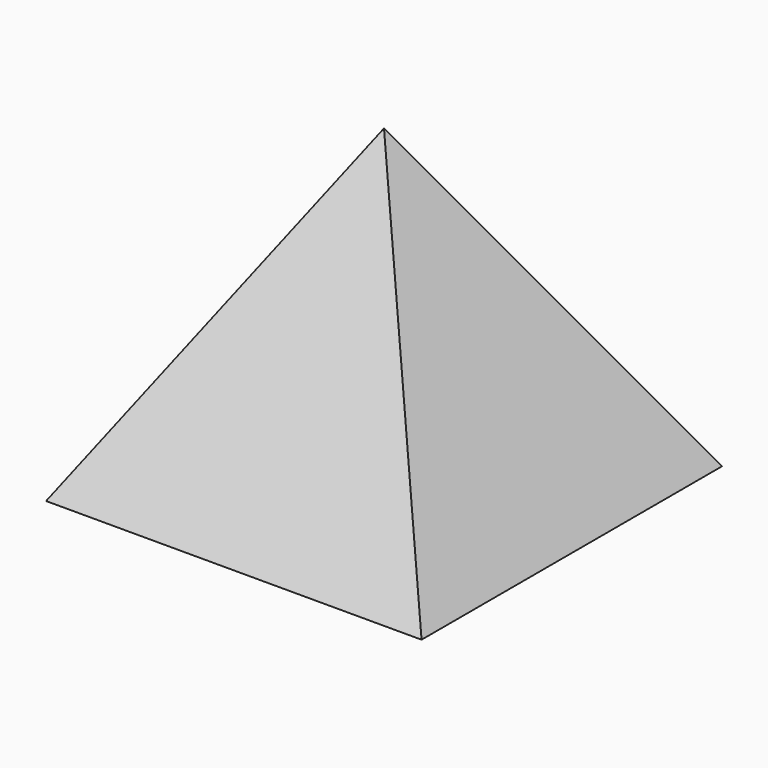
from build123d import *

# Parameters (mm, degrees)
F0_W = 600
F0_H = 600
F3_T = -2.5


with BuildPart() as f2:
    # F0 (on Top) → F2 section 0
    with BuildSketch(Plane.XY, mode=Mode.PRIVATE) as f2_s0:
        Rectangle(F0_W, F0_H)
    loft([f2_s0.sketch, Vertex(0, 0, 500)])

    # F3
    f3_openings = [f2.faces().sort_by_distance(p)[0] for p in [
        (0, 0, 0),
    ]]
    offset(amount=F3_T, openings=f3_openings)


solid = f2.part
